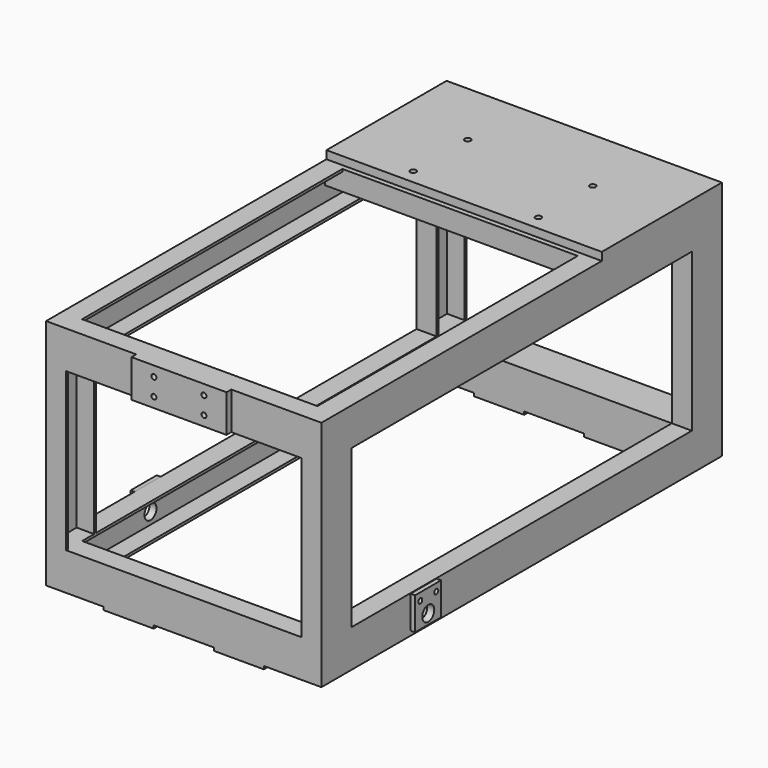
from build123d import *

# Parameters (mm, degrees)
F1_DEPTH  = 1000
F3_DEPTH  = 550
F2_W      = 75
F2_H      = 75
F5_DEPTH  = 315
F6_W      = 550
F6_H      = 300
F6_R      = 6
F7_DEPTH  = 16
F9_W      = 190
F9_H      = 75
F9_R      = 5
F10_DEPTH = 12
F12_W     = 100
F12_H     = 75
F14_DEPTH = 6
F16_R     = 3
F17_DEPTH = 12
F18_W     = 65
F18_H     = 65
F19_DEPTH = 9
F21_W     = 65
F21_H     = 65
F22_DEPTH = 9
F23_R     = 5
F23_R_2   = 15
F24_DEPTH = 25
F25_R     = 5
F25_R_2   = 15
F26_DEPTH = 25


with BuildPart() as f1:
    # F0 (on Front) → F1 (new body)
    with BuildSketch(Plane.XZ):
        Polygon((40, 0), (0, 0), (0, -75), (40, -75), (40, -70), (5, -70), (5, -5), (40, -5), align=None)
    extrude(amount=F1_DEPTH)


with BuildPart() as f1b:
    # F0 (on Front) → F1, piece 2 (new body)
    with BuildSketch(Plane.XZ):
        Polygon((545, -70), (510, -70), (510, -75), (550, -75), (550, 0), (510, 0), (510, -5), (545, -5), align=None)
    extrude(amount=F1_DEPTH)


with BuildPart() as f1c:
    # F0 (on Front) → F1, piece 3 (new body)
    with BuildSketch(Plane.XZ):
        Polygon((40, -390), (0, -390), (0, -465), (40, -465), (40, -460), (5, -460), (5, -395), (40, -395), align=None)
    extrude(amount=F1_DEPTH)


with BuildPart() as f1d:
    # F0 (on Front) → F1, piece 4 (new body)
    with BuildSketch(Plane.XZ):
        Polygon((545, -460), (510, -460), (510, -465), (550, -465), (550, -390), (510, -390), (510, -395), (545, -395), align=None)
    extrude(amount=F1_DEPTH)


with BuildPart() as f3:
    # F2 (on Right) → F3 (new body)
    with BuildSketch(Plane.YZ):
        Polygon((-40, -75), (0, -75), (0, 0), (-40, 0), (-40, -5), (-5, -5), (-5, -70), (-40, -70), align=None)
    extrude(amount=F3_DEPTH)


with BuildPart() as f3b:
    # F2 (on Right) → F3, piece 2 (new body)
    with BuildSketch(Plane.YZ):
        Polygon((-960, -5), (-960, 0), (-1000, 0), (-1000, -75), (-960, -75), (-960, -70), (-995, -70), (-995, -5), align=None)
    extrude(amount=F3_DEPTH)

    # F9 (on offset) → F10 (join)
    with BuildSketch(Plane.XZ.offset(1000)):
        with Locations((275, -37.5)):
            Rectangle(F9_W, F9_H)
        with Locations((225, -55)):
            Circle(F9_R, mode=Mode.SUBTRACT)
        with Locations((325, -55)):
            Circle(F9_R, mode=Mode.SUBTRACT)
        with Locations((225, -20)):
            Circle(F9_R, mode=Mode.SUBTRACT)
        with Locations((325, -20)):
            Circle(F9_R, mode=Mode.SUBTRACT)
    extrude(amount=F10_DEPTH)


with BuildPart() as f3c:
    # F2 (on Right) → F3, piece 3 (new body)
    with BuildSketch(Plane.YZ):
        Polygon((-240, -40), (-235, -40), (-235, 0), (-310, 0), (-310, -40), (-305, -40), (-305, -5), (-240, -5), align=None)
    extrude(amount=F3_DEPTH)


with BuildPart() as f3d:
    # F2 (on Right) → F3, piece 4 (new body)
    with BuildSketch(Plane.YZ):
        Polygon((-960, -395), (-960, -390), (-1000, -390), (-1000, -465), (-960, -465), (-960, -460), (-995, -460), (-995, -395), align=None)
    extrude(amount=F3_DEPTH)


with BuildPart() as f3e:
    # F2 (on Right) → F3, piece 5 (new body)
    with BuildSketch(Plane.YZ):
        with Locations((-37.5, -427.5)):
            Rectangle(F2_W, F2_H)
    extrude(amount=F3_DEPTH)


with BuildPart() as f5:
    # F4 (on face) → F5 (new body)
    with BuildSketch(Plane.XY.offset(-390)):
        Polygon((0, -925), (0, -1000), (40, -1000), (40, -995), (5, -995), (5, -930), (40, -930), (40, -925), align=None)
    extrude(amount=F5_DEPTH)


with BuildPart() as f5b:
    # F4 (on face) → F5, piece 2 (new body)
    with BuildSketch(Plane.XY.offset(-390)):
        Polygon((545, -995), (510, -995), (510, -1000), (550, -1000), (550, -925), (510, -925), (510, -930), (545, -930), align=None)
    extrude(amount=F5_DEPTH)


with BuildPart() as f5c:
    # F4 (on face) → F5, piece 3 (new body)
    with BuildSketch(Plane.XY.offset(-390)):
        Polygon((0, 0), (0, -75), (40, -75), (40, -70), (5, -70), (5, -5), (40, -5), (40, 0), align=None)
    extrude(amount=F5_DEPTH)


with BuildPart() as f5d:
    # F4 (on face) → F5, piece 4 (new body)
    with BuildSketch(Plane.XY.offset(-390)):
        Polygon((545, -70), (510, -70), (510, -75), (550, -75), (550, 0), (510, 0), (510, -5), (545, -5), align=None)
    extrude(amount=F5_DEPTH)


with BuildPart() as f7:
    # F6 (on Top) → F7 (new body)
    with BuildSketch(Plane.XY):
        with Locations((275, -150)):
            Rectangle(F6_W, F6_H)
        with Locations((150, -270.8259150982)):
            Circle(F6_R, mode=Mode.SUBTRACT)
        with Locations((400, -270.8259150982)):
            Circle(F6_R, mode=Mode.SUBTRACT)
        with Locations((150, -134.8259150982)):
            Circle(F6_R, mode=Mode.SUBTRACT)
        with Locations((400, -134.8259150982)):
            Circle(F6_R, mode=Mode.SUBTRACT)
    extrude(amount=F7_DEPTH)


with BuildPart() as f1_1:
    add(f1.part)

    # F13: union F1b, F1c, F1d, F3, F3d, F5b, F7, F3b, F3c, F3e, F5, F5c, F5d
    add(f1b.part)
    add(f1c.part)
    add(f1d.part)
    add(f3.part)
    add(f3d.part)
    add(f5b.part)
    add(f7.part)
    add(f3b.part)
    add(f3c.part)
    add(f3e.part)
    add(f5.part)
    add(f5c.part)
    add(f5d.part)

    # F12 (on offset) → F14 (join)
    with BuildSketch(Plane(origin=(0, 0, -465), x_dir=(1, 0, 0), z_dir=(0, 0, -1))):
        with Locations((165, 37.5)):
            Rectangle(F12_W, F12_H)
        with Locations((385, 37.5)):
            Rectangle(F12_W, F12_H)
        with Locations((165, 962.5)):
            Rectangle(F12_W, F12_H)
        with Locations((385, 962.5)):
            Rectangle(F12_W, F12_H)
    extrude(amount=F14_DEPTH)

    # F16 (on offset) → F17 (cut)
    with BuildSketch(Plane(origin=(0, 0, -471), x_dir=(1, 0, 0), z_dir=(0, 0, -1))):
        with Locations((407.5, 934)):
            Circle(F16_R)
        with Locations((407.5, 991)):
            Circle(F16_R)
        with Locations((362.5, 991)):
            Circle(F16_R)
        with Locations((362.5, 934)):
            Circle(F16_R)
        with Locations((407.5, 9)):
            Circle(F16_R)
        with Locations((407.5, 66)):
            Circle(F16_R)
        with Locations((362.5, 66)):
            Circle(F16_R)
        with Locations((362.5, 9)):
            Circle(F16_R)
        with Locations((174.8421853781, 934)):
            Circle(F16_R)
        with Locations((174.8421853781, 991)):
            Circle(F16_R)
        with Locations((129.8421853781, 991)):
            Circle(F16_R)
        with Locations((129.8421853781, 934)):
            Circle(F16_R)
        with Locations((174.8421853781, 9)):
            Circle(F16_R)
        with Locations((174.8421853781, 66)):
            Circle(F16_R)
        with Locations((129.8421853781, 66)):
            Circle(F16_R)
        with Locations((129.8421853781, 9)):
            Circle(F16_R)
    extrude(amount=-F17_DEPTH, mode=Mode.SUBTRACT)

    # F18 (on Right) → F19 (join)
    with BuildSketch(Plane.YZ):
        with Locations((-745, -423.5)):
            Rectangle(F18_W, F18_H)
    extrude(amount=-F19_DEPTH)

    # F21 (on offset) → F22 (join)
    with BuildSketch(Plane.YZ.offset(550)):
        with Locations((-745, -423.5)):
            Rectangle(F21_W, F21_H)
    extrude(amount=F22_DEPTH)

    # F23 (on face) → F24 (cut)
    with BuildSketch(Plane.YZ.offset(559)):
        with Locations((-764.5, -406)):
            Circle(F23_R)
        with Locations((-724.5, -406)):
            Circle(F23_R)
        with Locations((-744.5, -436)):
            Circle(F23_R_2)
    extrude(amount=-F24_DEPTH, mode=Mode.SUBTRACT)

    # F25 (on face) → F26 (cut)
    with BuildSketch(Plane(origin=(-9, 0, 0), x_dir=(0, -1, 0), z_dir=(-1, 0, 0))):
        with Locations((725.5, -407)):
            Circle(F25_R)
        with Locations((765.5, -407)):
            Circle(F25_R)
        with Locations((745.5, -437)):
            Circle(F25_R_2)
    extrude(amount=-F26_DEPTH, mode=Mode.SUBTRACT)


solid = f1_1.part
